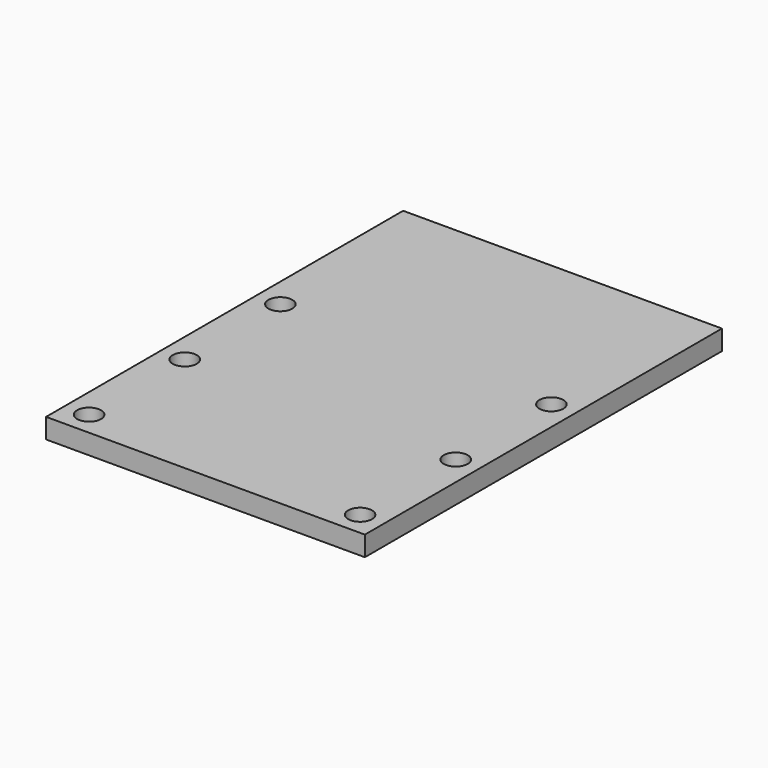
from build123d import *

# Parameters (mm, degrees)
F0_W     = 100
F0_H     = 140
F1_DEPTH = 6.25
F2_R     = 3.75
F3_DEPTH = 25


with BuildPart() as f1:
    # F0 (on Top) → F1 (new body)
    with BuildSketch(Plane.XY):
        Rectangle(F0_W, F0_H)
    extrude(amount=F1_DEPTH)

    # F2 (on face) → F3 (cut)
    with BuildSketch(Plane.XY.offset(6.25)):
        with Locations((-42.5, -62.5)):
            Circle(F2_R)
        with Locations((-42.5, -25)):
            Circle(F2_R)
        with Locations((-42.5, 12.5)):
            Circle(F2_R)
        with Locations((42.5, 12.5)):
            Circle(F2_R)
        with Locations((42.5, -62.5)):
            Circle(F2_R)
        with Locations((42.5, -25)):
            Circle(F2_R)
    extrude(amount=-F3_DEPTH, mode=Mode.SUBTRACT)


solid = f1.part
